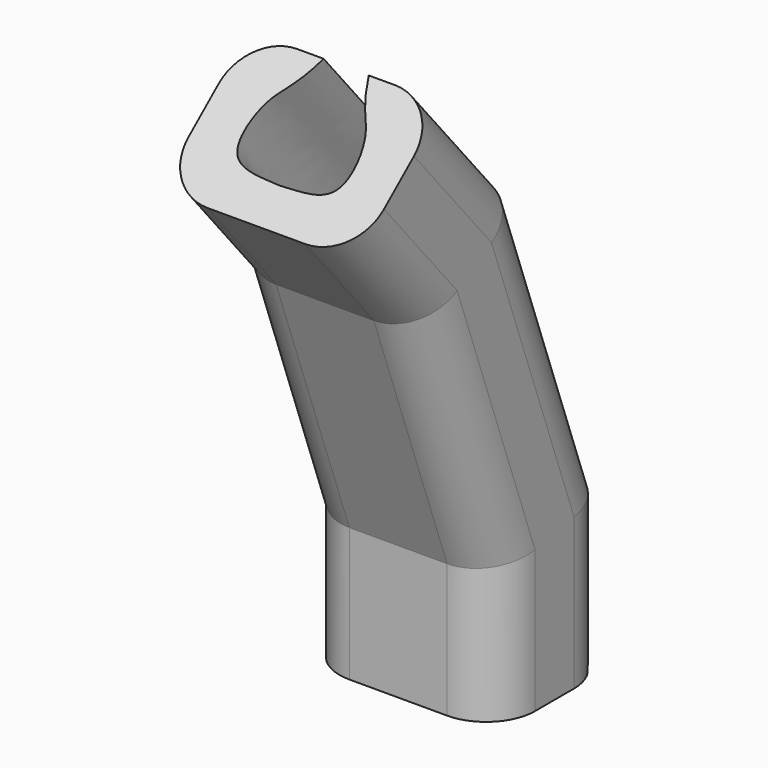
from build123d import *

# Parameters (mm, degrees)
F2_DEPTH = 25


with BuildPart() as f2:
    # F0 (on Top) → F2 (new body)
    with BuildSketch(Plane.XY):
        with BuildLine():
            Line((-4.6122563072, 15), (-10, 15))
            ThreePointArc((-10, 15), (-17.0710678119, 12.0710678119), (-20, 5))
            Line((-20, 5), (-20, -5))
            ThreePointArc((-20, -5), (-17.0710678119, -12.0710678119), (-10, -15))
            Line((-10, -15), (10, -15))
            ThreePointArc((10, -15), (17.0710678119, -12.0710678119), (20, -5))
            Line((20, -5), (20, 5))
            ThreePointArc((20, 5), (17.0710678119, 12.0710678119), (10, 15))
            Line((10, 15), (4.6122563072, 15))
            add(Edge.make_bspline(
                [(4.6122563072, 15), (6.8289469928, 8.9060682803), (10.5117220245, 7.2656945751), (12.4788450791, -7.5751167321), (3.7502092309, -7.1033691056), (0, -7.3496685363)],
                knots=[0, 0, 0, 0, 0.3461122042, 0.6708599201, 1, 1, 1, 1], degree=3))
            add(Edge.make_bspline(
                [(-4.6122563072, 15), (-6.8289469928, 8.9060682803), (-10.5117220245, 7.2656945751), (-12.4788450791, -7.5751167321), (-3.7502092309, -7.1033691056), (0, -7.3496685363)],
                knots=[0, 0, 0, 0, 0.3461122042, 0.6708599201, 1, 1, 1, 1], degree=3))
        make_face()
    extrude(amount=F2_DEPTH)

    # F3: sweep along a path in F1
    with BuildLine(Plane.YZ) as f3_path:
        Line((0, 0), (0, 30))
        Line((0, 30), (-20.5212085995, 86.3815572472))
        Line((-20.5212085995, 86.3815572472), (-39.8048368901, 109.3628905407))
    # F0 (on Top) → F3 (sweep)
    with BuildSketch(Plane.XY):
        with BuildLine():
            Line((-4.6122563072, 15), (-10, 15))
            ThreePointArc((-10, 15), (-17.0710678119, 12.0710678119), (-20, 5))
            Line((-20, 5), (-20, -5))
            ThreePointArc((-20, -5), (-17.0710678119, -12.0710678119), (-10, -15))
            Line((-10, -15), (10, -15))
            ThreePointArc((10, -15), (17.0710678119, -12.0710678119), (20, -5))
            Line((20, -5), (20, 5))
            ThreePointArc((20, 5), (17.0710678119, 12.0710678119), (10, 15))
            Line((10, 15), (4.6122563072, 15))
            add(Edge.make_bspline(
                [(4.6122563072, 15), (6.8289469928, 8.9060682803), (10.5117220245, 7.2656945751), (12.4788450791, -7.5751167321), (3.7502092309, -7.1033691056), (0, -7.3496685363)],
                knots=[0, 0, 0, 0, 0.3461122042, 0.6708599201, 1, 1, 1, 1], degree=3))
            add(Edge.make_bspline(
                [(-4.6122563072, 15), (-6.8289469928, 8.9060682803), (-10.5117220245, 7.2656945751), (-12.4788450791, -7.5751167321), (-3.7502092309, -7.1033691056), (0, -7.3496685363)],
                knots=[0, 0, 0, 0, 0.3461122042, 0.6708599201, 1, 1, 1, 1], degree=3))
        make_face()
    sweep(path=f3_path.line, transition=Transition.RIGHT)


solid = f2.part
